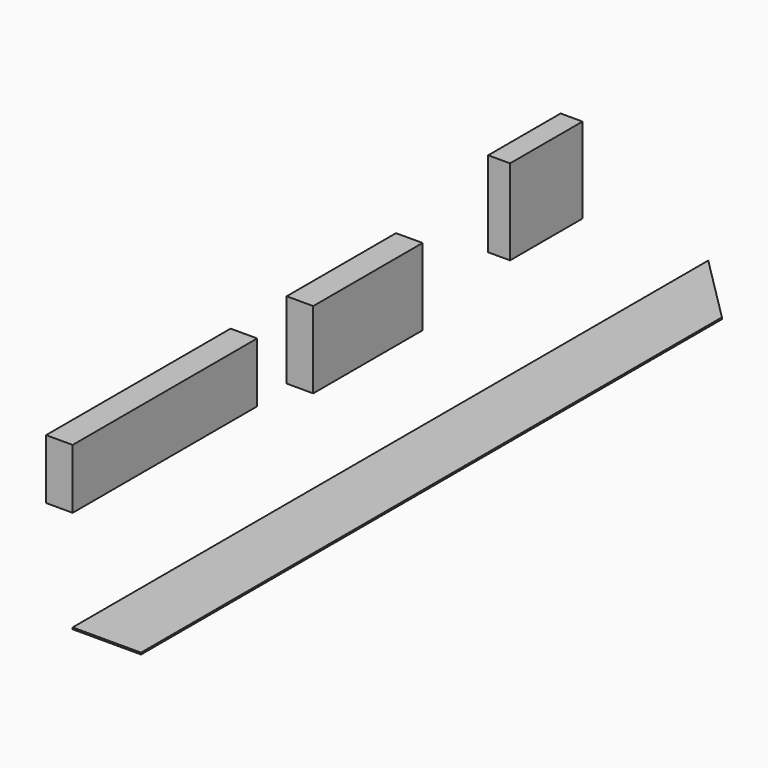
from build123d import *

# Parameters (mm, degrees)
F1_DEPTH = 2.54
F3_START = 152.4
F2_W     = 39.5086954395
F2_H     = 342.9
F3_DEPTH = 88.9
F4_START = 127
F2_H_2   = 203.2
F4_DEPTH = 114.3
F5_START = 152.4
F2_W_2   = 32.536033541
F2_H_3   = 134.62
F5_DEPTH = 127


with BuildPart() as f1:
    # F0 (on Top) → F1 (new body)
    with BuildSketch(Plane.XY):
        Polygon((101.6, 1079.5), (0, 1181.1), (0, 0), (101.6, 0), align=None)
    extrude(amount=F1_DEPTH)


with BuildPart() as f3:
    # F2 (on Top) → F3 (new body)
    with BuildSketch(Plane.XY.offset(F3_START)):
        with Locations((-19.7543477197, 171.45)):
            Rectangle(F2_W, F2_H)
    extrude(amount=F3_DEPTH)


with BuildPart() as f4:
    # F2 (on Top) → F4 (new body)
    with BuildSketch(Plane.XY.offset(F4_START)):
        with Locations((-19.7543477197, 548.64)):
            Rectangle(F2_W, F2_H_2)
    extrude(amount=F4_DEPTH)


with BuildPart() as f5:
    # F2 (on Top) → F5 (new body)
    with BuildSketch(Plane.XY.offset(F5_START)):
        with Locations((-16.2680167705, 880.11)):
            Rectangle(F2_W_2, F2_H_3)
    extrude(amount=F5_DEPTH)


solid = Compound([f1.part, f3.part, f4.part, f5.part])
